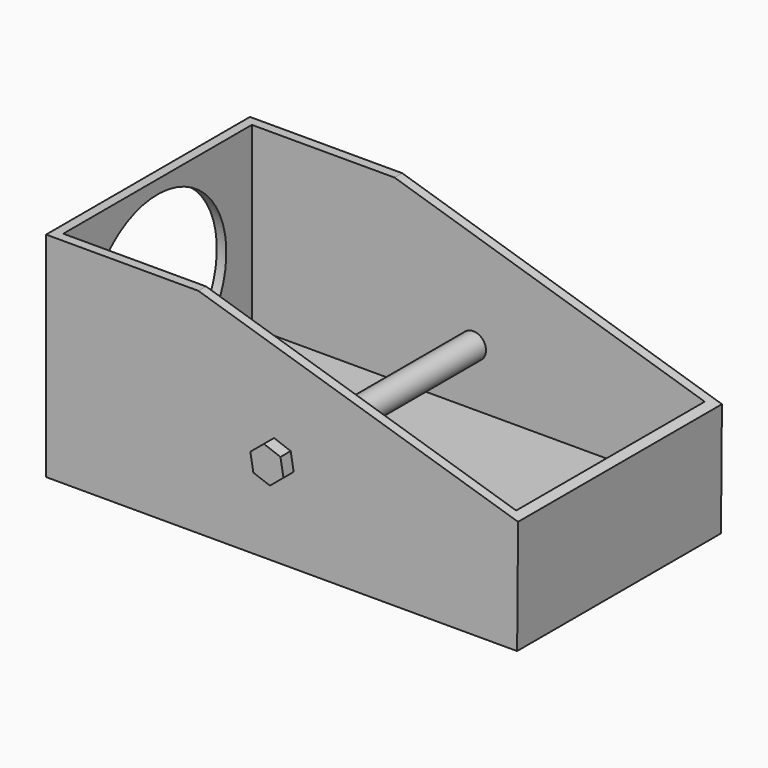
from build123d import *

# Parameters (mm, degrees)
F1_DEPTH  = 20
F3_W      = 22.4105001092
F3_H      = 37
F3_W_2    = 48.6809194684
F4_DEPTH  = 28
F5_R      = 2
F6_DEPTH  = 2
F7_DEPTH  = 40
F8_DEPTH  = 2
F10_DEPTH = 2
F11_R     = 13.5
F12_DEPTH = 5


with BuildPart() as f1:
    # F0 (on Front) → F1 (new body)
    with BuildSketch(Plane.XZ):
        Polygon((-23.9105001092, 33.5152801126), (-23.9105001092, 0), (50.0319972634, 0), (50.1809194684, 17.9111845791), (0, 33.5152801126), align=None)
    extrude(amount=F1_DEPTH)

    # F2: F1 across face


with BuildPart() as f1_1:
    add(f1.part)
    add(f1.part.mirror(Plane(origin=(9.3059845029, 0, 14.6000769053), x_dir=(1, 0, 0), z_dir=(0, 1, 0))))

    # F3 (on face) → F4 (cut)
    with BuildSketch(Plane.XY.offset(33.5152801126)):
        with Locations((-11.2052500546, 0)):
            Rectangle(F3_W, F3_H)
        with Locations((24.3404597342, 0)):
            Rectangle(F3_W_2, F3_H)
    extrude(amount=-F4_DEPTH, mode=Mode.SUBTRACT)

    # F5 (on face) → F6 (join)
    with BuildSketch(Plane.XZ.offset(20)):
        Polygon((14.9534574564, 13.3521119993), (14.4816109652, 16.0829288897), (11.8807309195, 17.0397062869), (9.7516973649, 15.2656667936), (10.2235438561, 12.5348499033), (12.8244239018, 11.5780725061), align=None)
        with Locations((12.3525774106, 14.3088893965)):
            Circle(F5_R, mode=Mode.SUBTRACT)
    extrude(amount=F6_DEPTH)

    # F7 (add): a face of the model
    f7_faces = [f1_1.faces().sort_by_distance(p)[0] for p in [
        (12.3525774106, -20, 14.3088893965),
    ]]
    extrude(f7_faces, amount=-F7_DEPTH)

    # F8 (add): a face of the model
    f8_faces = [f1_1.faces().sort_by_distance(p)[0] for p in [
        (12.3525774106, -20, 14.3088893965),
    ]]
    extrude(f8_faces, amount=F8_DEPTH)

    # F9 (on face) → F10 (join)
    with BuildSketch(Plane(origin=(0, 20, 0), x_dir=(-1, 0, 0), z_dir=(0, 1, 0))):
        Polygon((-8.9518631259, 11.5546170938), (-8.7388157611, 14.7756681167), (-11.4218040914, 16.5706980583), (-14.3178397865, 15.144676977), (-14.5308871513, 11.9236259541), (-11.847898821, 10.1285960125), align=None)
    extrude(amount=F10_DEPTH)

    # F11 (on face) → F12 (cut)
    with BuildSketch(Plane(origin=(-23.9105001092, 0, 0), x_dir=(0, -1, 0), z_dir=(-1, 0, 0))):
        with Locations((0, 17.928481102)):
            Circle(F11_R)
    extrude(amount=-F12_DEPTH, mode=Mode.SUBTRACT)


solid = f1_1.part
